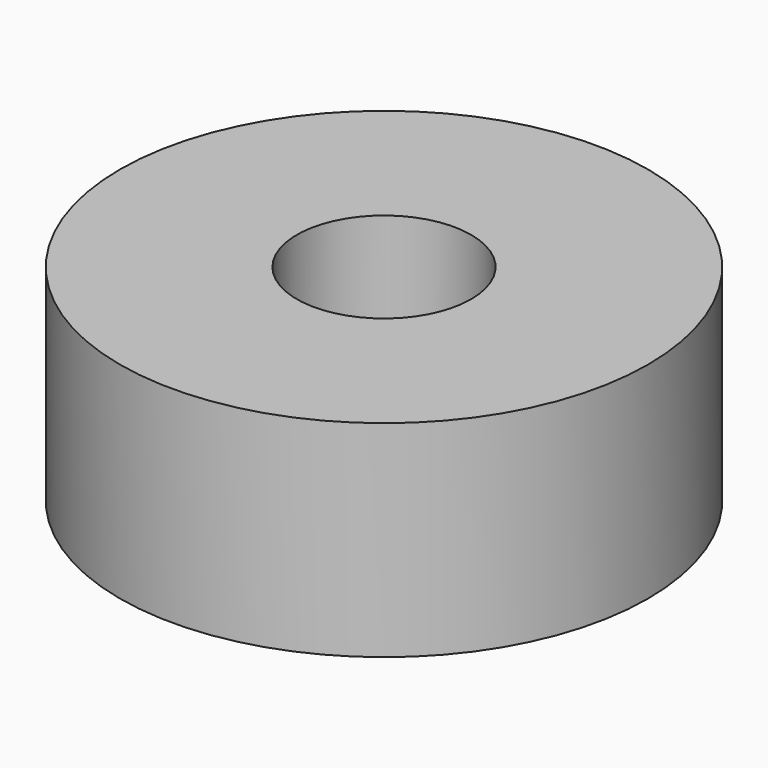
from build123d import *

# Parameters (mm, degrees)
CYLINDER001_R     = 16.5
CYLINDER001_DEPTH = 39
CYLINDER_R        = 50
CYLINDER_DEPTH    = 39


with BuildPart() as zylinder001:
    # Cylinder001 → Cylinder001 (new body)
    with BuildSketch(Plane.XY):
        Circle(CYLINDER001_R)
    extrude(amount=CYLINDER001_DEPTH)


with BuildPart() as largecoil:
    # Cylinder → Cylinder (new body)
    with BuildSketch(Plane.XY):
        Circle(CYLINDER_R)
    extrude(amount=CYLINDER_DEPTH)

    # Cut: cut Zylinder001
    add(zylinder001.part, mode=Mode.SUBTRACT)


solid = largecoil.part
